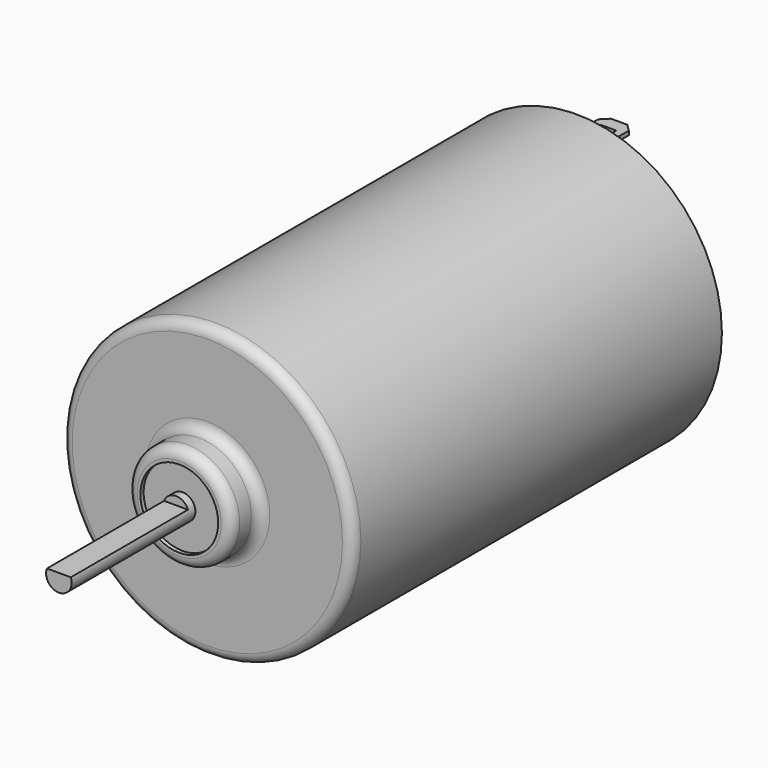
from build123d import *

# Parameters (mm, degrees)
F0_R      = 18.034
F1_DEPTH  = 57.2516
F2_R      = 6.477
F3_DEPTH  = 4.3434
F4_R      = 1.27
F5_R      = 4.826
F6_DEPTH  = 0.508
F7_R      = 1.5875
F8_DEPTH  = 19.177
F9_W      = 18.161
F9_H      = 1.016
F10_DEPTH = 3.175
F11_R     = 17.3228
F12_DEPTH = 1.27
F13_W     = 3.81
F13_H     = 0.508
F14_DEPTH = 7.874
F16_SIZE  = 0.889
F17_R     = 1.27
F18_W     = 0.2921
F18_H     = 1.524
F18_W_2   = 1.905
F18_H_2   = 2.413
F19_DEPTH = 29.0957


with BuildPart() as f1:
    # F0 (on Front) → F1 (new body)
    with BuildSketch(Plane.XZ):
        Circle(F0_R)
    extrude(amount=F1_DEPTH)

    # F2 (on face) → F3 (join)
    with BuildSketch(Plane.XZ.offset(57.2516)):
        Circle(F2_R)
    extrude(amount=F3_DEPTH)

    # F4
    f4_edges = [f1.edges().sort_by_distance(p)[0] for p in [
        (-6.477, -57.2516, 0),
        (-6.477, -61.595, 0),
    ]]
    fillet(f4_edges, radius=F4_R)

    # F5 (on face) → F6 (cut)
    with BuildSketch(Plane.XZ.offset(61.595)):
        Circle(F5_R)
    extrude(amount=-F6_DEPTH, mode=Mode.SUBTRACT)

    # F7 (on face) → F8 (join)
    with BuildSketch(Plane.XZ.offset(61.087)):
        Circle(F7_R)
    extrude(amount=F8_DEPTH)

    # F9 (on Right) → F10 (cut, symmetric)
    with BuildSketch(Plane.YZ):
        with Locations((-71.1835, 1.0795)):
            Rectangle(F9_W, F9_H)
    extrude(amount=F10_DEPTH, both=True, mode=Mode.SUBTRACT)

    # F11 (on face) → F12 (cut)
    with BuildSketch(Plane(origin=(0, 0, 0), x_dir=(-1, 0, 0), z_dir=(0, 1, 0))):
        Circle(F11_R)
    extrude(amount=-F12_DEPTH, mode=Mode.SUBTRACT)

    # F13 (on face) → F14 (join)
    with BuildSketch(Plane(origin=(0, -1.27, 0), x_dir=(-1, 0, 0), z_dir=(0, 1, 0))):
        with Locations((0, 14.2748)):
            Rectangle(F13_W, F13_H)
        with Locations((0, -14.2748)):
            Rectangle(F13_W, F13_H)
    extrude(amount=F14_DEPTH)

    # F16
    f16_edges = [f1.edges().sort_by_distance(p)[0] for p in [
        (-1.905, 6.604, 14.2748),
        (1.905, 6.604, 14.2748),
        (-1.905, 6.604, -14.2748),
        (1.905, 6.604, -14.2748),
    ]]
    chamfer(f16_edges, length=F16_SIZE)

    # F17
    f17_edges = [f1.edges().sort_by_distance(p)[0] for p in [
        (-18.034, -57.2516, 0),
    ]]
    fillet(f17_edges, radius=F17_R)

    # F18 (on face) → F19 (cut)
    with BuildSketch(Plane.XY.offset(14.5288)):
        with Locations((-1.75895, -0.508)):
            Rectangle(F18_W, F18_H)
        with Locations((1.75895, -0.508)):
            Rectangle(F18_W, F18_H)
        with Locations((0, 3.7719)):
            Rectangle(F18_W_2, F18_H_2)
    extrude(amount=-F19_DEPTH, mode=Mode.SUBTRACT)


solid = f1.part
